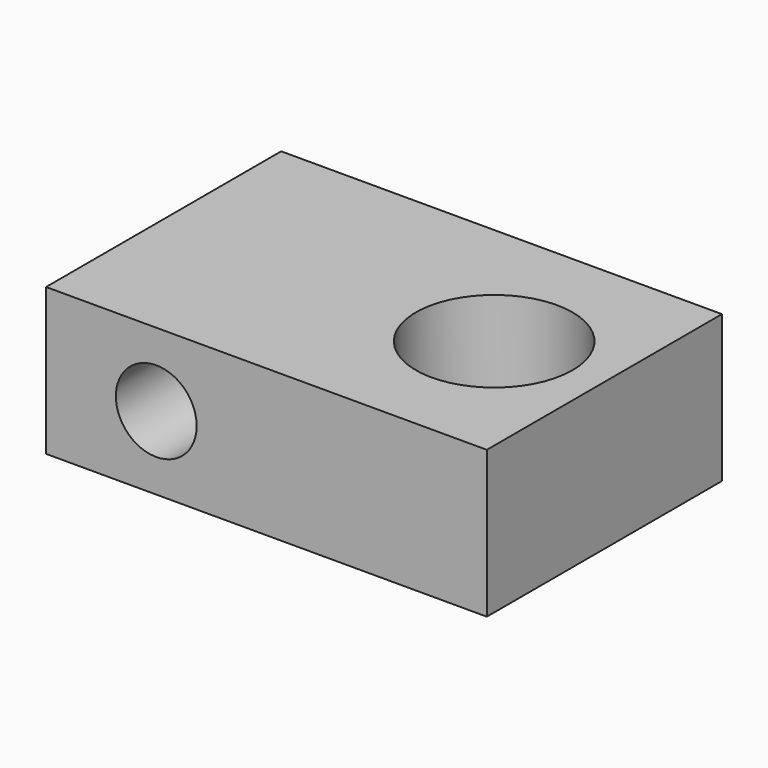
from build123d import *

# Parameters (mm, degrees)
F0_W     = 18
F0_H     = 12
F1_DEPTH = 6
F2_R     = 1.65
F4_DEPTH = 25
F3_R     = 3.2
F5_DEPTH = 25


with BuildPart() as f1:
    # F0 (on Top) → F1 (new body)
    with BuildSketch(Plane.XY):
        Rectangle(F0_W, F0_H)
    extrude(amount=F1_DEPTH)

    # F2 (on face) → F4 (cut)
    with BuildSketch(Plane.XZ.offset(6)):
        with Locations((-4.5, 3)):
            Circle(F2_R)
    extrude(amount=-F4_DEPTH, mode=Mode.SUBTRACT)

    # F3 (on face) → F5 (cut)
    with BuildSketch(Plane.XY.offset(6)):
        with Locations((4.5, 0)):
            Circle(F3_R)
    extrude(amount=-F5_DEPTH, mode=Mode.SUBTRACT)


solid = f1.part
